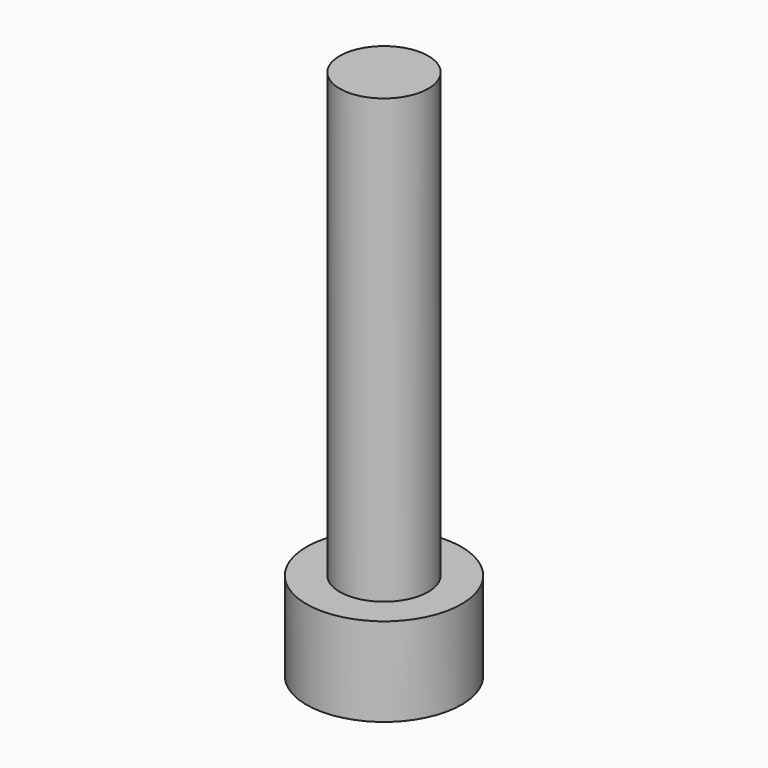
from build123d import *

# Parameters (mm, degrees)
POCKET_DEPTH = 2


with BuildPart() as part:
    # Sketch → Revolution (revolve)
    with BuildSketch(Plane.YZ):
        Polygon((-3.5, 4), (-3.5, 0), (0, 0), (0, 24), (-2, 24), (-2, 4), align=None)
    revolve(axis=Axis((0, 0, 0), (0, 0, 1)))

    # Sketch001 (on Face2 of Revolution) → Pocket (cut)
    with BuildSketch(Plane.YX):
        Polygon((0, 2.5), (-2.165064, 1.25), (-2.165064, -1.25), (0, -2.5), (2.165064, -1.25), (2.165064, 1.25), align=None)
    extrude(amount=-POCKET_DEPTH, mode=Mode.SUBTRACT)


solid = part.part
